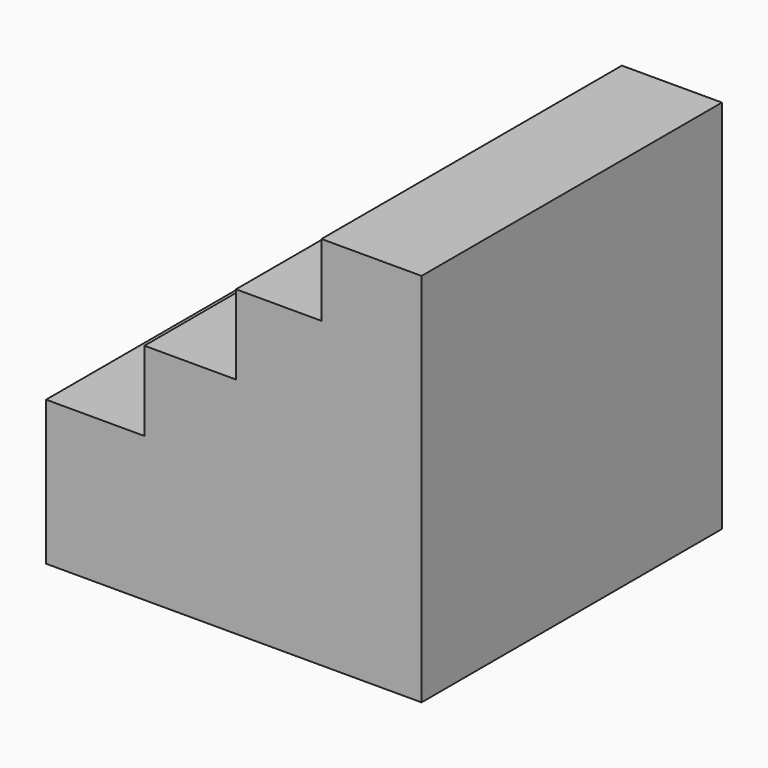
from build123d import *

# Parameters (mm, degrees)
F0_W     = 127
F0_H     = 127
F1_DEPTH = 127
F3_DEPTH = 127


with BuildPart() as f1:
    # F0 (on Front) → F1 (new body)
    with BuildSketch(Plane.XZ):
        with Locations((-48.796492, 46.886945)):
            Rectangle(F0_W, F0_H)
    extrude(amount=F1_DEPTH)

    # F2 (on face) → F3 (cut)
    with BuildSketch(Plane.XZ.offset(127)):
        Polygon((-112.296492, 110.386945), (-112.296492, 32.243274), (-79.02848, 32.243274), (-79.02848, 59.122436), (-48.066411, 59.122436), (-48.066411, 86.001597), (-19.145798, 86.001597), (-19.145798, 110.386945), align=None)
    extrude(amount=-F3_DEPTH, mode=Mode.SUBTRACT)


solid = f1.part
